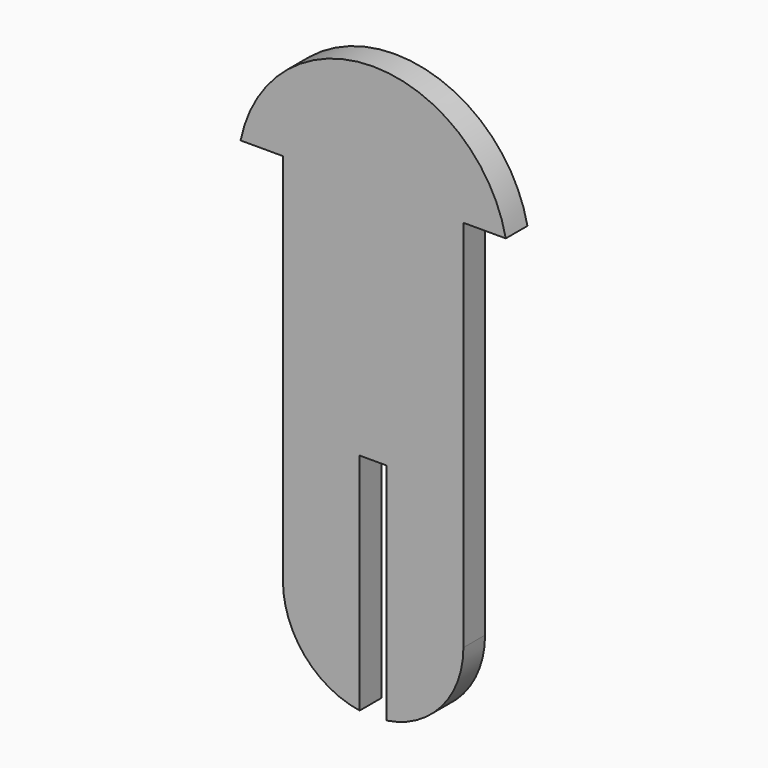
from build123d import *

# Parameters (mm, degrees)
F1_DEPTH = 3


with BuildPart() as f1:
    # F0 (on Front) → F1 (new body)
    with BuildSketch(Plane.XZ):
        with BuildLine():
            Line((-14.696938, 41.45), (-10, 41.45))
            Line((-10, 41.45), (-10, 0))
            ThreePointArc((-10, 0), (-7.582875, -6.519202), (-1.5, -9.88686))
            Line((-1.5, -9.88686), (-1.5, 15))
            Line((-1.5, 15), (1.5, 15))
            Line((1.5, 15), (1.5, -9.88686))
            ThreePointArc((1.5, -9.88686), (7.582875, -6.519202), (10, 0))
            Line((10, 0), (10, 41.45))
            Line((10, 41.45), (14.696938, 41.45))
            ThreePointArc((14.696938, 41.45), (0, 53.45), (-14.696938, 41.45))
        make_face()
    extrude(amount=F1_DEPTH)


solid = f1.part
